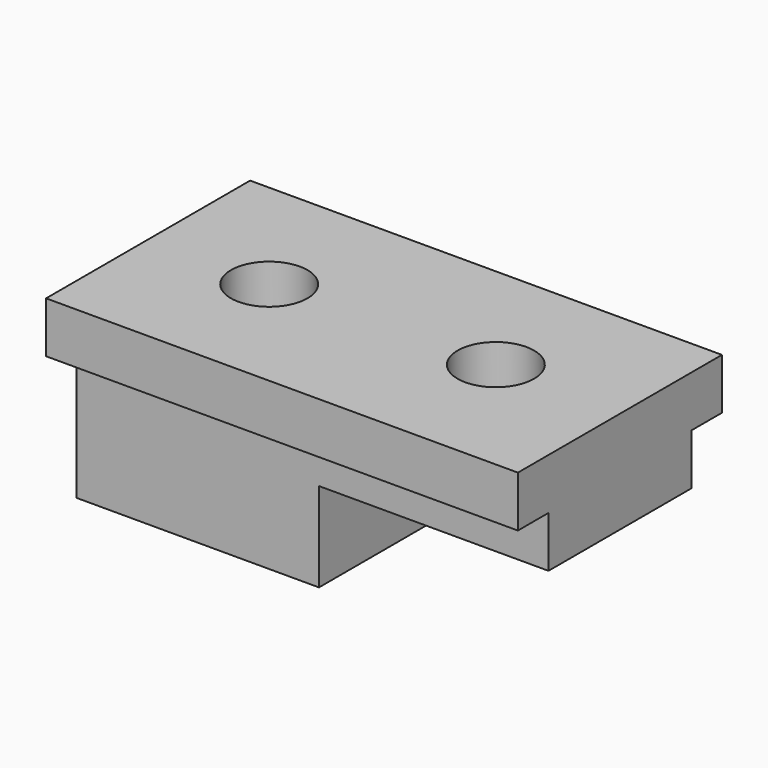
from build123d import *

# Parameters (mm, degrees)
F0_W     = 117.475
F0_H     = 63.5
F1_DEPTH = 12.7
F2_W     = 117.475
F2_H     = 44.45
F3_DEPTH = 12.7
F4_W     = 60.325
F4_H     = 44.45
F5_DEPTH = 22.225
F4_R     = 9.525
F6_DEPTH = 25.401
F7_R     = 9.525
F8_DEPTH = 47.626


with BuildPart() as f1:
    # F0 (on Top) → F1 (new body)
    with BuildSketch(Plane.XY):
        with Locations((1.320983, -5.650138)):
            Rectangle(F0_W, F0_H)
    extrude(amount=F1_DEPTH)

    # F2 (on face) → F3 (join)
    with BuildSketch(Plane(origin=(0, 0, 0), x_dir=(1, 0, 0), z_dir=(0, 0, -1))):
        with Locations((1.320983, 5.650138)):
            Rectangle(F2_W, F2_H)
    extrude(amount=F3_DEPTH)

    # F4 (on face) → F5 (join)
    with BuildSketch(Plane(origin=(0, 0, -12.7), x_dir=(1, 0, 0), z_dir=(0, 0, -1))):
        with Locations((-27.254017, 5.650138)):
            Rectangle(F4_W, F4_H)
    extrude(amount=F5_DEPTH)

    # F4 (on face) → F6 (cut, through all)
    with BuildSketch(Plane(origin=(0, 0, -12.7), x_dir=(1, 0, 0), z_dir=(0, 0, -1))):
        with Locations((28.308483, 4.572674)):
            Circle(F4_R)
    extrude(amount=-F6_DEPTH, mode=Mode.SUBTRACT)

    # F7 (on face) → F8 (cut, through all)
    with BuildSketch(Plane(origin=(0, 0, -34.925), x_dir=(1, 0, 0), z_dir=(0, 0, -1))):
        with Locations((-27.254017, 5.650138)):
            Circle(F7_R)
    extrude(amount=-F8_DEPTH, mode=Mode.SUBTRACT)


solid = f1.part
